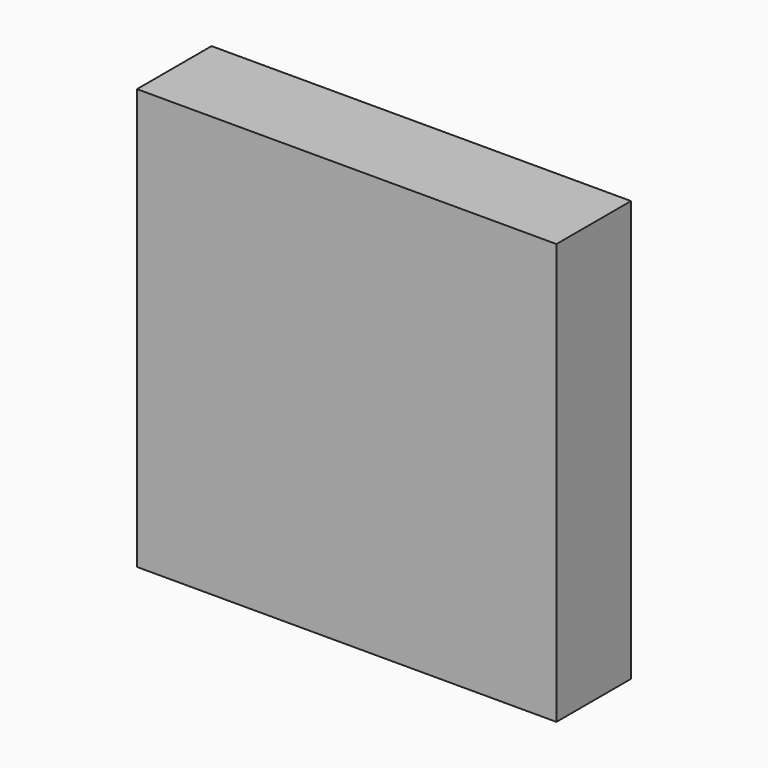
from build123d import *

# Parameters (mm, degrees)
F0_W     = 76.031186
F0_H     = 76.254733
F1_DEPTH = 16.889574
F2_R     = 4.608742
F3_DEPTH = 1.204457


with BuildPart() as f1:
    # F0 (on Front) → F1 (new body)
    with BuildSketch(Plane.XZ):
        with Locations((-38.015593, 38.127367)):
            Rectangle(F0_W, F0_H)
    extrude(amount=F1_DEPTH)

    # F2 (on face) → F3 (join)
    with BuildSketch(Plane(origin=(-76.031186, 0, 0), x_dir=(0, -1, 0), z_dir=(-1, 0, 0))):
        with Locations((8.180324, 60.1198)):
            Circle(F2_R)
    extrude(amount=F3_DEPTH)


solid = f1.part
